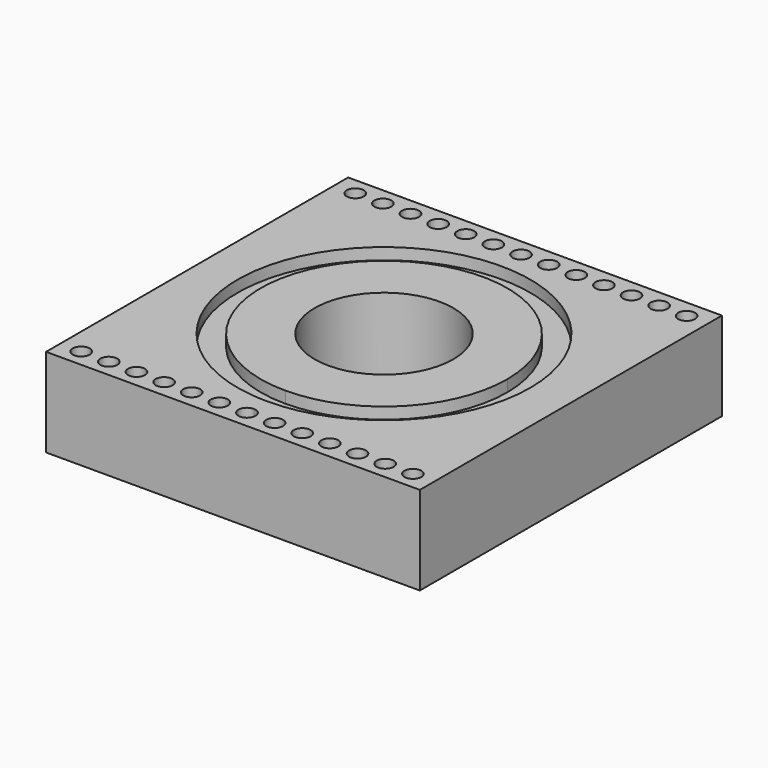
from build123d import *

# Parameters (mm, degrees)
F0_R     = 11
F1_DEPTH = 115
F2_DEPTH = 115
F3_DEPTH = 100


with BuildPart() as f1:
    # F0 (on Top) → F1 (new body)
    with BuildSketch(Plane.XY):
        Polygon((0, -245), (242.5, -245), (242.5, 245), (-242.5, 245), (-242.5, -245), align=None)
        with Locations((-215.1, -222.25)):
            Circle(F0_R, mode=Mode.SUBTRACT)
        with Locations((-179.25, -222.25)):
            Circle(F0_R, mode=Mode.SUBTRACT)
        with Locations((-143.4, -222.25)):
            Circle(F0_R, mode=Mode.SUBTRACT)
        with Locations((-107.55, -222.25)):
            Circle(F0_R, mode=Mode.SUBTRACT)
        with Locations((-71.7, -222.25)):
            Circle(F0_R, mode=Mode.SUBTRACT)
        with Locations((-35.85, -222.25)):
            Circle(F0_R, mode=Mode.SUBTRACT)
        with BuildLine():
            ThreePointArc((11, -222.25), (7.778175, -230.028175), (0, -233.25))
            ThreePointArc((0, -233.25), (-11, -222.25), (0, -211.25))
            ThreePointArc((0, -211.25), (7.778175, -214.471825), (11, -222.25))
        make_face(mode=Mode.SUBTRACT)
        with Locations((35.85, -222.25)):
            Circle(F0_R, mode=Mode.SUBTRACT)
        with Locations((71.7, -222.25)):
            Circle(F0_R, mode=Mode.SUBTRACT)
        with Locations((107.55, -222.25)):
            Circle(F0_R, mode=Mode.SUBTRACT)
        with Locations((143.4, -222.215042)):
            Circle(F0_R, mode=Mode.SUBTRACT)
        with Locations((179.25, -222.215042)):
            Circle(F0_R, mode=Mode.SUBTRACT)
        with Locations((215.1, -221.956581)):
            Circle(F0_R, mode=Mode.SUBTRACT)
        with Locations((-215.1, 222.25)):
            Circle(F0_R, mode=Mode.SUBTRACT)
        with Locations((-179.25, 222.25)):
            Circle(F0_R, mode=Mode.SUBTRACT)
        with Locations((-143.4, 222.25)):
            Circle(F0_R, mode=Mode.SUBTRACT)
        with Locations((-107.55, 222.25)):
            Circle(F0_R, mode=Mode.SUBTRACT)
        with Locations((-71.7, 222.25)):
            Circle(F0_R, mode=Mode.SUBTRACT)
        with Locations((-35.85, 222.25)):
            Circle(F0_R, mode=Mode.SUBTRACT)
        with BuildLine():
            ThreePointArc((190, 0), (134.350288, -134.350288), (0, -190))
            ThreePointArc((0, -190), (-134.350288, 134.350288), (190, 0))
        make_face(mode=Mode.SUBTRACT)
        with Locations((0, 222.25)):
            Circle(F0_R, mode=Mode.SUBTRACT)
        with Locations((35.85, 222.25)):
            Circle(F0_R, mode=Mode.SUBTRACT)
        with Locations((71.7, 222.25)):
            Circle(F0_R, mode=Mode.SUBTRACT)
        with Locations((107.55, 222.25)):
            Circle(F0_R, mode=Mode.SUBTRACT)
        with Locations((143.4, 222.215042)):
            Circle(F0_R, mode=Mode.SUBTRACT)
        with Locations((179.25, 222.215042)):
            Circle(F0_R, mode=Mode.SUBTRACT)
        with Locations((215.1, 221.956581)):
            Circle(F0_R, mode=Mode.SUBTRACT)
    extrude(amount=F1_DEPTH)



with BuildPart() as f2:
    # F0 (on Top) → F2 (new body)
    with BuildSketch(Plane.XY):
        with BuildLine():
            ThreePointArc((160, 0), (-113.137085, 113.137085), (0, -160))
            ThreePointArc((0, -160), (113.137085, -113.137085), (160, 0))
        make_face()
        with BuildLine():
            ThreePointArc((90, 0), (63.63961, -63.63961), (0, -90))
            ThreePointArc((0, -90), (-63.63961, 63.63961), (90, 0))
        make_face(mode=Mode.SUBTRACT)
    extrude(amount=F2_DEPTH)


with BuildPart() as f1_1:
    add(f1.part)

    add(f2.part)  # F3 merges F2
    # F0 (on Top) → F3 (join)
    with BuildSketch(Plane.XY):
        with BuildLine():
            ThreePointArc((190, 0), (-134.350288, 134.350288), (0, -190))
            ThreePointArc((0, -190), (134.350288, -134.350288), (190, 0))
        make_face()
        with BuildLine():
            ThreePointArc((160, 0), (113.137085, -113.137085), (0, -160))
            ThreePointArc((0, -160), (-113.137085, 113.137085), (160, 0))
        make_face(mode=Mode.SUBTRACT)
    extrude(amount=F3_DEPTH)


solid = f1_1.part
